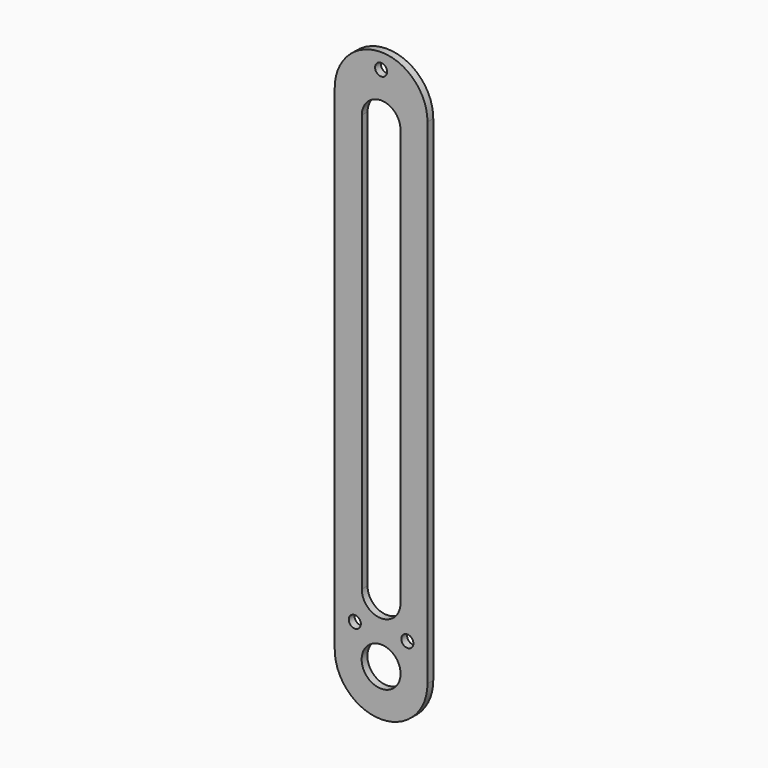
from build123d import *

# Parameters (mm, degrees)
F0_R     = 2.4765
F0_R_2   = 8.001
F1_DEPTH = 2.9718


with BuildPart() as f1:
    # F0 (on Front) → F1 (new body)
    with BuildSketch(Plane.XZ):
        with BuildLine():
            Line((-19.05, 0), (-19.05, -203.2))
            ThreePointArc((-19.05, -203.2), (0, -222.25), (19.05, -203.2))
            Line((19.05, -203.2), (19.05, 0))
            ThreePointArc((19.05, 0), (0, 19.05), (-19.05, 0))
        make_face()
        with Locations((-10.795, -190.5)):
            Circle(F0_R, mode=Mode.SUBTRACT)
        with Locations((0, -203.2)):
            Circle(F0_R_2, mode=Mode.SUBTRACT)
        with Locations((10.795, -190.5)):
            Circle(F0_R, mode=Mode.SUBTRACT)
        with BuildLine():
            ThreePointArc((7.9375, -177.8), (0, -185.7375), (-7.9375, -177.8))
            Line((-7.9375, -177.8), (-7.9375, -6.35))
            ThreePointArc((-7.9375, -6.35), (0, 1.5875), (7.9375, -6.35))
            Line((7.9375, -6.35), (7.9375, -177.8))
        make_face(mode=Mode.SUBTRACT)
        with Locations((0, 12.7)):
            Circle(F0_R, mode=Mode.SUBTRACT)
    extrude(amount=F1_DEPTH)


solid = f1.part
